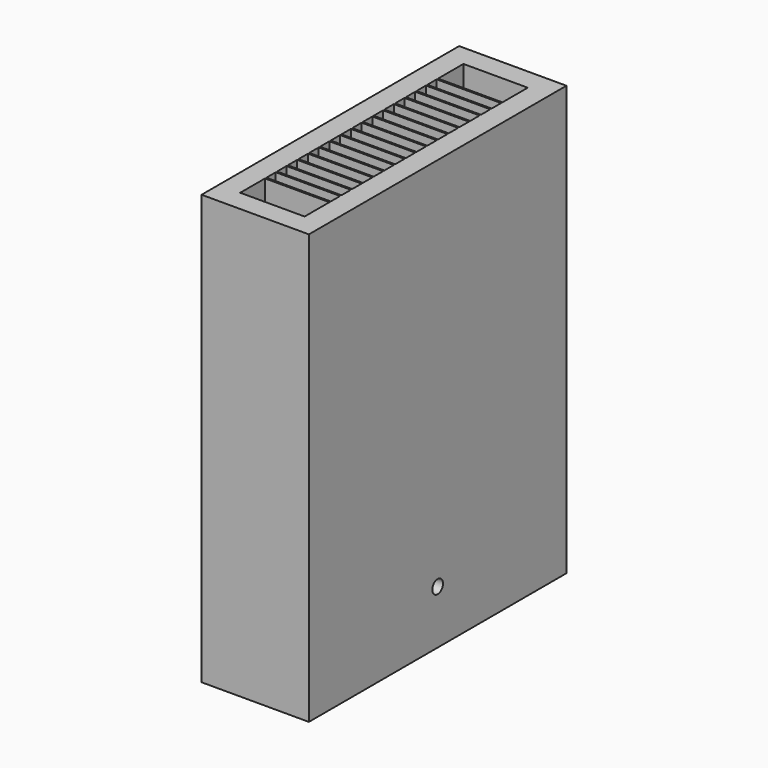
from build123d import *

# Parameters (mm, degrees)
F0_W      = 25.4
F0_H      = 76.2
F1_DEPTH  = 101.6
F2_W      = 15.24
F2_H      = 66.04
F3_DEPTH  = 76.2
F6_START  = -3.175
F5_W      = 3.175
F5_H      = 59.69
F6_DEPTH  = 12.065
F4_R      = 1.5875
F7_DEPTH  = 6.6675
F8_R      = 1.5875
F9_DEPTH  = 6.6675
F10_W     = 1.5875
F10_H     = 1.5875
F11_DEPTH = 3.175
F12_W     = 1.5875
F12_H     = 1.5875
F13_DEPTH = 3.175
F14_W     = 15.24
F14_H     = 0.396875
F15_DEPTH = 76.2


with BuildPart() as f1:
    # F0 (on Top) → F1 (new body)
    with BuildSketch(Plane.XY):
        with Locations((12.7, 38.1)):
            Rectangle(F0_W, F0_H)
    extrude(amount=F1_DEPTH)

    # F2 (on face) → F3 (cut)
    with BuildSketch(Plane.XY.offset(101.6)):
        with Locations((12.7, 38.1)):
            Rectangle(F2_W, F2_H)
    extrude(amount=-F3_DEPTH, mode=Mode.SUBTRACT)

    # F5 (on face) → F6 (cut)
    with BuildSketch(Plane.XY.offset(25.4).offset(F6_START)):
        with Locations((17.145, 38.1)):
            Rectangle(F5_W, F5_H)
        with Locations((8.255, 38.1)):
            Rectangle(F5_W, F5_H)
    extrude(amount=-F6_DEPTH, mode=Mode.SUBTRACT)

    # F4 (on face) → F7 (cut, through all)
    with BuildSketch(Plane.YZ.offset(25.4)):
        with Locations((38.1, 12.7)):
            Circle(F4_R)
    extrude(amount=-F7_DEPTH, mode=Mode.SUBTRACT)

    # F8 (on face) → F9 (cut, through all)
    with BuildSketch(Plane(origin=(0, 0, 0), x_dir=(0, -1, 0), z_dir=(-1, 0, 0))):
        with Locations((-38.1, 12.7)):
            Circle(F8_R)
    extrude(amount=-F9_DEPTH, mode=Mode.SUBTRACT)

    # F10 (on face) → F11 (cut, through all)
    with BuildSketch(Plane.XY.offset(25.4)):
        with Locations((8.255, 64.9995461683)):
            Rectangle(F10_W, F10_H)
        with Locations((8.255, 58.6495461683)):
            Rectangle(F10_W, F10_H)
        with Locations((8.255, 52.2995461683)):
            Rectangle(F10_W, F10_H)
        with Locations((8.255, 45.9495461683)):
            Rectangle(F10_W, F10_H)
        with Locations((8.255, 39.5995461683)):
            Rectangle(F10_W, F10_H)
        with Locations((8.255, 33.2495461683)):
            Rectangle(F10_W, F10_H)
        with Locations((8.255, 26.8995461683)):
            Rectangle(F10_W, F10_H)
        with Locations((8.255, 20.5495461683)):
            Rectangle(F10_W, F10_H)
        with Locations((8.255, 14.1995461683)):
            Rectangle(F10_W, F10_H)
    extrude(amount=-F11_DEPTH, mode=Mode.SUBTRACT)

    # F12 (on face) → F13 (cut, through all)
    with BuildSketch(Plane.XY.offset(25.4)):
        with Locations((17.145, 61.8245461683)):
            Rectangle(F12_W, F12_H)
        with Locations((17.145, 55.4745461683)):
            Rectangle(F12_W, F12_H)
        with Locations((17.145, 49.1245461683)):
            Rectangle(F12_W, F12_H)
        with Locations((17.145, 42.7745461683)):
            Rectangle(F12_W, F12_H)
        with Locations((17.145, 36.4245461683)):
            Rectangle(F12_W, F12_H)
        with Locations((17.145, 30.0745461683)):
            Rectangle(F12_W, F12_H)
        with Locations((17.145, 23.7245461683)):
            Rectangle(F12_W, F12_H)
        with Locations((17.145, 17.3745461683)):
            Rectangle(F12_W, F12_H)
        with Locations((17.145, 11.0245461683)):
            Rectangle(F12_W, F12_H)
    extrude(amount=-F13_DEPTH, mode=Mode.SUBTRACT)

    # F14 (on face) → F15 (join, through all)
    with BuildSketch(Plane.XY.offset(25.4)):
        with Locations((12.7, 63.4120461683)):
            Rectangle(F14_W, F14_H)
        with Locations((12.7, 60.2370461683)):
            Rectangle(F14_W, F14_H)
        with Locations((12.7, 57.0620461683)):
            Rectangle(F14_W, F14_H)
        with Locations((12.7, 53.8870461683)):
            Rectangle(F14_W, F14_H)
        with Locations((12.7, 50.7120461683)):
            Rectangle(F14_W, F14_H)
        with Locations((12.7, 47.5370461683)):
            Rectangle(F14_W, F14_H)
        with Locations((12.7, 44.3620461683)):
            Rectangle(F14_W, F14_H)
        with Locations((12.7, 41.1870461683)):
            Rectangle(F14_W, F14_H)
        with Locations((12.7, 38.0120461683)):
            Rectangle(F14_W, F14_H)
        with Locations((12.7, 34.8370461683)):
            Rectangle(F14_W, F14_H)
        with Locations((12.7, 31.6620461683)):
            Rectangle(F14_W, F14_H)
        with Locations((12.7, 28.4870461683)):
            Rectangle(F14_W, F14_H)
        with Locations((12.7, 25.3120461683)):
            Rectangle(F14_W, F14_H)
        with Locations((12.7, 22.1370461683)):
            Rectangle(F14_W, F14_H)
        with Locations((12.7, 18.9620461683)):
            Rectangle(F14_W, F14_H)
        with Locations((12.7, 15.7870461683)):
            Rectangle(F14_W, F14_H)
        with Locations((12.7, 12.6120461683)):
            Rectangle(F14_W, F14_H)
    extrude(amount=F15_DEPTH)


solid = f1.part
